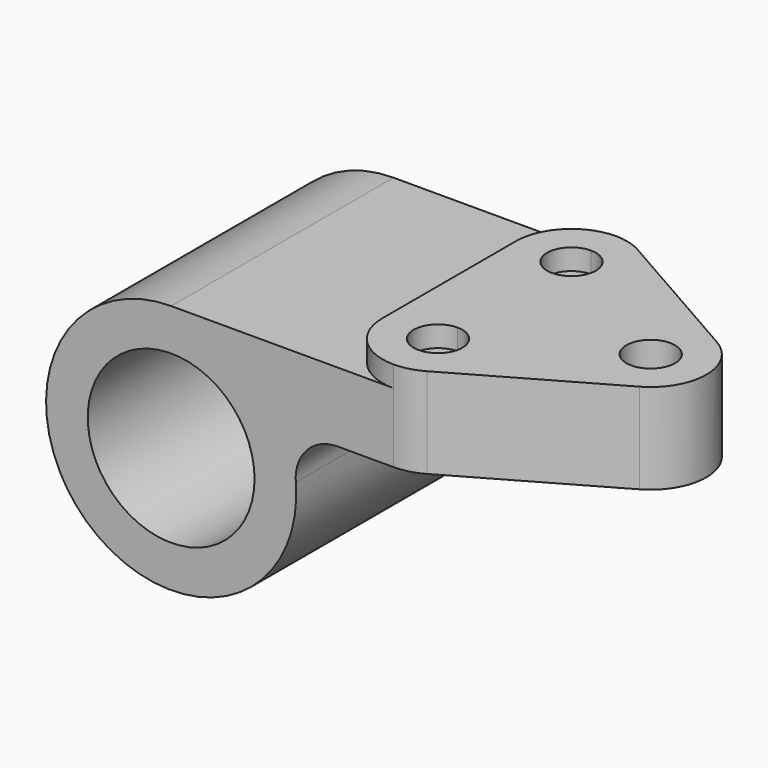
from build123d import *

# Parameters (mm, degrees)
F0_R     = 19.05
F1_DEPTH = 63.5
F2_R     = 5.5626
F3_DEPTH = 20.6502


with BuildPart() as f1:
    # F0 (on Front) → F1 (new body)
    with BuildSketch(Plane.XZ):
        with BuildLine():
            Line((50.8, 28.575), (0, 28.575))
            ThreePointArc((0, 28.575), (-19.345366, -21.030631), (28.475608, 2.38125))
            ThreePointArc((28.475608, 2.38125), (30.957268, 9.623455), (37.967478, 12.7))
            Line((37.967478, 12.7), (50.8, 12.7))
            Line((50.8, 12.7), (50.8, 28.575))
        make_face()
        Circle(F0_R, mode=Mode.SUBTRACT)
    extrude(amount=F1_DEPTH)

    # F2 (on face) → F3 (join)
    with BuildSketch(Plane(origin=(0, 0, 12.7), x_dir=(1, 0, 0), z_dir=(0, 0, -1))):
        with BuildLine():
            ThreePointArc((50.8, 45.2374), (45.2374, 50.8), (50.8, 56.3626))
            Line((50.8, 56.3626), (50.8, 63.5))
            ThreePointArc((50.8, 63.5), (41.819744, 59.780256), (38.1, 50.8))
            Line((38.1, 50.8), (38.1, 12.7))
            ThreePointArc((38.1, 12.7), (41.819744, 3.719744), (50.8, 0))
            Line((50.8, 0), (50.8, 7.1374))
            ThreePointArc((50.8, 7.1374), (45.2374, 12.7), (50.8, 18.2626))
            Line((50.8, 18.2626), (50.8, 45.2374))
        make_face()
        with BuildLine():
            ThreePointArc((50.8, 56.3626), (54.733352, 54.733352), (56.3626, 50.8))
            ThreePointArc((56.3626, 50.8), (54.733352, 46.866648), (50.8, 45.2374))
            Line((50.8, 45.2374), (50.8, 18.2626))
            ThreePointArc((50.8, 18.2626), (54.733352, 16.633352), (56.3626, 12.7))
            ThreePointArc((56.3626, 12.7), (54.733352, 8.766648), (50.8, 7.1374))
            Line((50.8, 7.1374), (50.8, 0))
            ThreePointArc((50.8, 0), (54.058676, 0.425187), (57.099155, 1.672279))
            Line((57.099155, 1.672279), (90.449355, 20.722279))
            ThreePointArc((90.449355, 20.722279), (96.8502, 31.75), (90.449355, 42.777721))
            Line((90.449355, 42.777721), (57.099155, 61.827721))
            ThreePointArc((57.099155, 61.827721), (54.058676, 63.074813), (50.8, 63.5))
            Line((50.8, 63.5), (50.8, 56.3626))
        make_face()
        with Locations((84.1502, 31.75)):
            Circle(F2_R, mode=Mode.SUBTRACT)
    extrude(amount=-F3_DEPTH)


solid = f1.part
